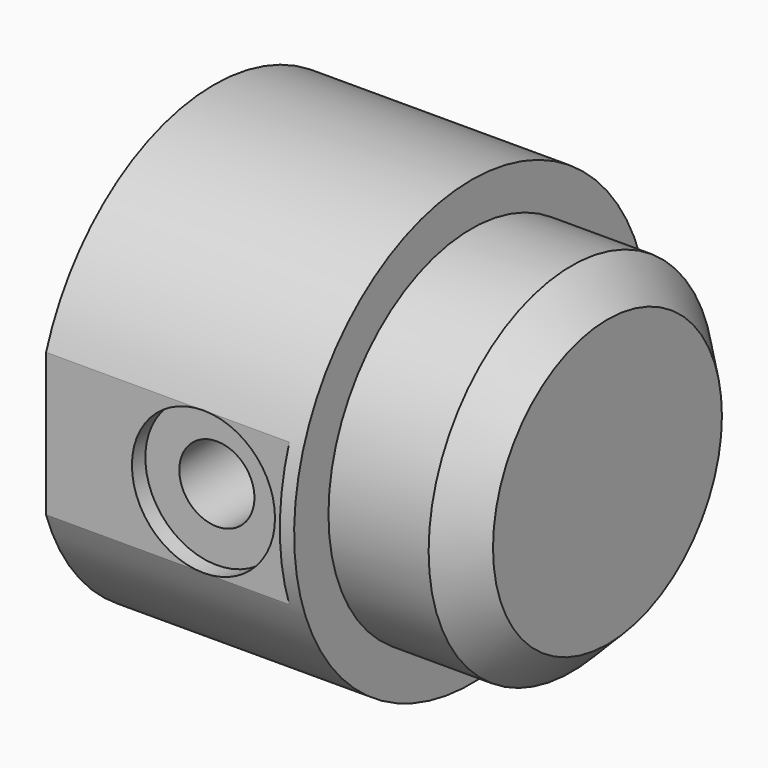
from build123d import *

# Parameters (mm, degrees)
F2_R      = 1.5
F3_DEPTH  = 5
F5_D      = 5.25
F5_DEPTH  = 7
F5_TIP    = 1.5772591249
F7_R      = 5
F8_DEPTH  = 2
F10_D     = 5.25
F10_DEPTH = 6.25
F10_TIP   = 1.5772591249
F12_R     = 5
F13_DEPTH = 2
F15_D     = 5.25
F15_DEPTH = 6.25
F15_TIP   = 1.5772591249
F16_R     = 12.5
F17_DEPTH = 9.5
F18_SIZE  = 2.5
F20_DEPTH = 17


with BuildPart() as f1:
    # F0 (on Front) → F1 (revolve)
    with BuildSketch(Plane.XZ):
        Polygon((0, 0), (0, 5), (0, 15.5), (-18, 15.5), (-18, 7), (-20, 7), (-20, 5), (-20, 0), align=None)
    revolve(axis=Axis((-5.3004380733, 0, 0), (-1, 0, 0)))

    # F2 (on face) → F3 (cut)
    with BuildSketch(Plane(origin=(-18, 0, 0), x_dir=(0, -1, 0), z_dir=(-1, 0, 0))):
        with Locations((8.25, 8.25)):
            Circle(F2_R)
        with Locations((-8.25, 8.25)):
            Circle(F2_R)
        with Locations((-8.25, -8.25)):
            Circle(F2_R)
        with Locations((8.25, -8.25)):
            Circle(F2_R)
    extrude(amount=-F3_DEPTH, mode=Mode.SUBTRACT)

    # F5
    with Locations(Plane(origin=(-18, 0, 0), x_dir=(0, -1, 0), z_dir=(-1, 0, 0))):
        with Locations((-8.25, 8.25), (8.25, 8.25), (-8.25, -8.25), (8.25, -8.25)):
            Hole(F5_D / 2, depth=F5_DEPTH)
            with Locations((0, 0, -(F5_DEPTH + F5_TIP / 2))):  # 118° drill point
                Cone(0, F5_D / 2, F5_TIP, mode=Mode.SUBTRACT)

    # F7 (on offset) → F8 (cut)
    with BuildSketch(Plane.XZ.offset(15.5)):
        with Locations((-7, 0)):
            Circle(F7_R)
    extrude(amount=-F8_DEPTH, mode=Mode.SUBTRACT)

    # F10
    with Locations(Plane.XZ.offset(13.5)):
        with Locations((-7, 0)):
            Hole(F10_D / 2, depth=F10_DEPTH)
            with Locations((0, 0, -(F10_DEPTH + F10_TIP / 2))):  # 118° drill point
                Cone(0, F10_D / 2, F10_TIP, mode=Mode.SUBTRACT)

    # F12 (on offset) → F13 (cut)
    with BuildSketch(Plane.XZ.offset(-15.5)):
        with Locations((-8, 0)):
            Circle(F12_R)
    extrude(amount=F13_DEPTH, mode=Mode.SUBTRACT)

    # F15
    with Locations(Plane(origin=(0, 13.5, 0), x_dir=(-1, 0, 0), z_dir=(0, 1, 0))):
        with Locations((8, 0)):
            Hole(F15_D / 2, depth=F15_DEPTH)
            with Locations((0, 0, -(F15_DEPTH + F15_TIP / 2))):  # 118° drill point
                Cone(0, F15_D / 2, F15_TIP, mode=Mode.SUBTRACT)

    # F16 (on face) → F17 (join)
    with BuildSketch(Plane.YZ):
        Circle(F16_R)
    extrude(amount=F17_DEPTH)

    # F18
    f18_edges = [f1.edges().sort_by_distance(p)[0] for p in [
        (9.5, -12.5, 0),
    ]]
    chamfer(f18_edges, length=F18_SIZE)

    # F19 (on face) → F20 (cut)
    with BuildSketch(Plane(origin=(-18, 0, 0), x_dir=(0, -1, 0), z_dir=(-1, 0, 0))):
        with BuildLine():
            Line((-14.6714007511, -5), (-14.6714007511, 5))
            ThreePointArc((-14.6714007511, 5), (-15.5, 0), (-14.6714007511, -5))
        make_face()
        with BuildLine():
            ThreePointArc((14.6714007511, -5), (15.5, 0), (14.6714007511, 5))
            Line((14.6714007511, 5), (14.6714007511, -5))
        make_face()
    extrude(amount=-F20_DEPTH, mode=Mode.SUBTRACT)


solid = f1.part
